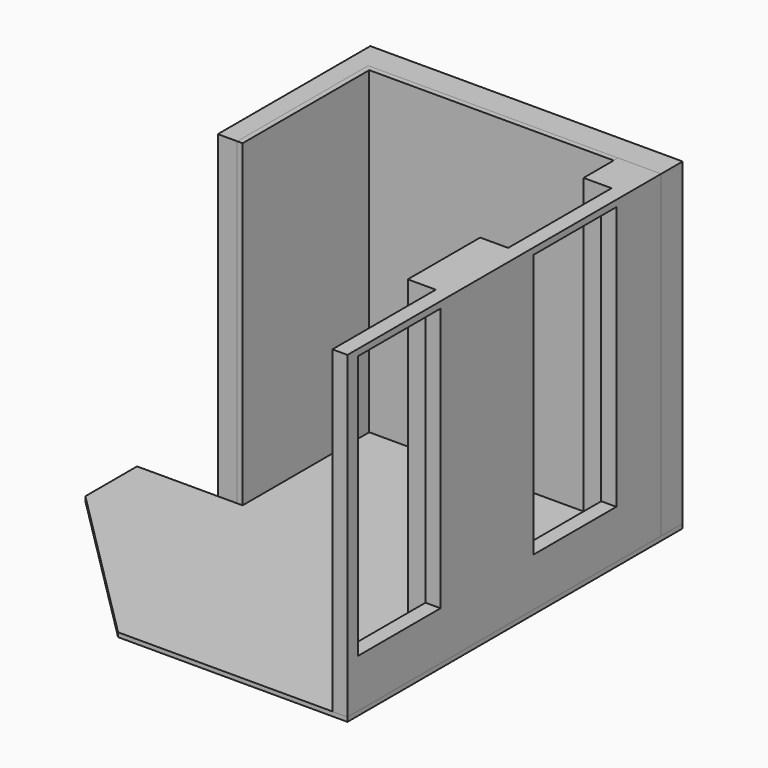
from build123d import *

# Parameters (mm, degrees)
F1_DEPTH = 2960
F2_DEPTH = 2960
F3_DEPTH = 2960
F4_W     = 960
F4_H     = 2450
F5_DEPTH = 140.001
F7_DEPTH = 40


with BuildPart() as f1:
    # F0 (on Top) → F1 (new body)
    with BuildSketch(Plane.XY):
        Polygon((-50, 0), (0, 0), (0, 1470), (2270, 1470), (2270, 1520), (-50, 1520), align=None)
    extrude(amount=F1_DEPTH)


with BuildPart() as f2:
    # F0 (on Top) → F2 (new body, through all)
    with BuildSketch(Plane.XY):
        Polygon((2270, 1520), (2270, 1470), (2270, 1120), (2530, 1120), (2530, -80), (2270, -80), (2270, -920), (2530, -920), (2530, -2120), (2670, -2120), (2670, 1520), align=None)
    extrude(amount=F2_DEPTH)

    # F4 (on face) → F5 (cut, through all)
    with BuildSketch(Plane(origin=(2530, 0, 0), x_dir=(0, -1, 0), z_dir=(-1, 0, 0))):
        with Locations((-520, 1675)):
            Rectangle(F4_W, F4_H)
        with Locations((1520, 1675)):
            Rectangle(F4_W, F4_H)
    extrude(amount=-F5_DEPTH, mode=Mode.SUBTRACT)


with BuildPart() as f3:
    # F0 (on Top) → F3 (new body, through all)
    with BuildSketch(Plane.XY):
        Polygon((-230, 0), (-50, 0), (-50, 1520), (2270, 1520), (2670, 1520), (2670, 1770), (-230, 1770), align=None)
    extrude(amount=F3_DEPTH)


with BuildPart() as f7:
    # F6 (on Top) → F7 (new body)
    with BuildSketch(Plane.XY):
        Polygon((-230, 1770), (-230, 0), (-980, 0), (-980, -600), (540, -2120), (2670, -2120), (2670, 1520), (2670, 1770), align=None)
    extrude(amount=-F7_DEPTH)


solid = Compound([f1.part, f2.part, f3.part, f7.part])
